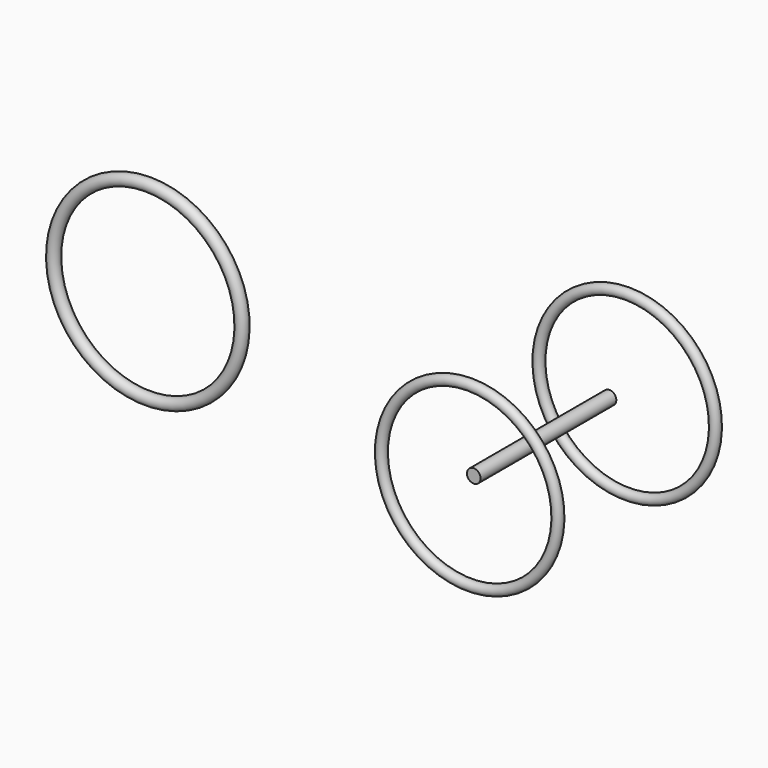
from build123d import *

# Parameters (mm, degrees)
F0_R     = 22.225
F2_R     = 25.4
F3_DEPTH = 317.5
F5_R     = 19.05


with BuildPart() as f1:
    # F0 (on Right) → F1 (revolve)
    with BuildSketch(Plane.YZ):
        with Locations((0, 352.425)):
            Circle(F0_R)
    revolve(axis=Axis((0, -85.645348, 0), (0, -1, 0)))


with BuildPart() as f3:
    # F2 (on Front) → F3 (new body, symmetric)
    with BuildSketch(Plane.XZ):
        with Locations((1473.2, 0)):
            Circle(F2_R)
    extrude(amount=F3_DEPTH, both=True)


with BuildPart() as f6:
    # F5 (on offset) → F6 (revolve)
    with BuildSketch(Plane.YZ.offset(1498.6)):
        with Locations((368.3, 330.2)):
            Circle(F5_R)
        with Locations((-368.3, 330.2)):
            Circle(F5_R)
    revolve(axis=Axis((1498.6, -294.494251, 0), (0, -1, 0)))


solid = Compound([f1.part, f3.part, f6.part])
